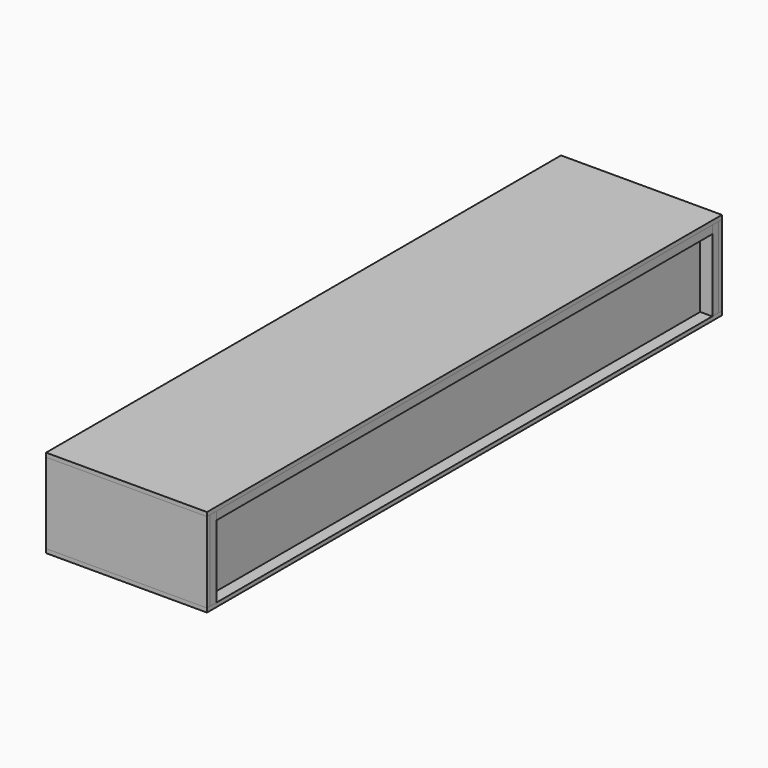
from build123d import *

# Parameters (mm, degrees)
BOX_W          = 200
BOX_H          = 800
BOX_DEPTH      = 5
BOX002_W       = 5
BOX002_H       = 790
BOX002_DEPTH   = 100
BOX003_W       = 200
BOX003_H       = 5
BOX003_DEPTH   = 100
BOX004_W       = 200
BOX004_H       = 5
BOX004_DEPTH   = 100
BOX005_W       = 5
BOX005_H       = 790
BOX005_DEPTH   = 100
BOX007_W       = 15
BOX007_H       = 10
BOX007_DEPTH   = 100
BOX008_W       = 15
BOX008_H       = 10
BOX008_DEPTH   = 100
BOX009_W       = 15
BOX009_H       = 10
BOX009_DEPTH   = 100
BOX010_W       = 15
BOX010_H       = 10
BOX010_DEPTH   = 100
BOX006_W       = 20
BOX006_H       = 790
BOX006_DEPTH   = 20
BOX011_W       = 17
BOX011_H       = 18.5
BOX011_DEPTH   = 800
SKETCH_R       = 2.5
HOLE_DEPTH     = 25
BOX001_W       = 200
BOX001_H       = 800
BOX001_DEPTH   = 5
SKETCH001_R    = 6
HOLE001_DEPTH  = 31
CYLINDER_R     = 27
CYLINDER_DEPTH = 55
BOX012_W       = 84
BOX012_H       = 220
BOX012_DEPTH   = 20
BOX013_W       = 82
BOX013_H       = 218
BOX013_DEPTH   = 5
BOX014_W       = 15
BOX014_H       = 770
BOX014_DEPTH   = 10


with BuildPart() as roof:
    # Box → Box (new body)
    with BuildSketch(Plane.XY.offset(105)):
        with Locations((100, 400)):
            Rectangle(BOX_W, BOX_H)
    extrude(amount=BOX_DEPTH)


with BuildPart() as glass:
    # Box002 → Box002 (new body)
    with BuildSketch(Plane(origin=(180, 5, 5), x_dir=(1, 0, 0), z_dir=(0, 0, 1))):
        with Locations((2.5, 395)):
            Rectangle(BOX002_W, BOX002_H)
    extrude(amount=BOX002_DEPTH)


with BuildPart() as sideright:
    # Box003 → Box003 (new body)
    with BuildSketch(Plane.XY.offset(5)):
        with Locations((100, 2.5)):
            Rectangle(BOX003_W, BOX003_H)
    extrude(amount=BOX003_DEPTH)


with BuildPart() as sideleft:
    # Box004 → Box004 (new body)
    with BuildSketch(Plane(origin=(0, 795, 5), x_dir=(1, 0, 0), z_dir=(0, 0, 1))):
        with Locations((100, 2.5)):
            Rectangle(BOX004_W, BOX004_H)
    extrude(amount=BOX004_DEPTH)


with BuildPart() as back:
    # Box005 → Box005 (new body)
    with BuildSketch(Plane(origin=(0, 5, 5), x_dir=(1, 0, 0), z_dir=(0, 0, 1))):
        with Locations((2.5, 395)):
            Rectangle(BOX005_W, BOX005_H)
    extrude(amount=BOX005_DEPTH)


with BuildPart() as obj1:
    # Box007 → Box007 (new body)
    with BuildSketch(Plane(origin=(185, 5, 5), x_dir=(1, 0, 0), z_dir=(0, 0, 1))):
        with Locations((7.5, 5)):
            Rectangle(BOX007_W, BOX007_H)
    extrude(amount=BOX007_DEPTH)


with BuildPart() as obj2:
    # Box008 → Box008 (new body)
    with BuildSketch(Plane(origin=(165, 5, 5), x_dir=(1, 0, 0), z_dir=(0, 0, 1))):
        with Locations((7.5, 5)):
            Rectangle(BOX008_W, BOX008_H)
    extrude(amount=BOX008_DEPTH)


with BuildPart() as obj3:
    # Box009 → Box009 (new body)
    with BuildSketch(Plane(origin=(185, 785, 5), x_dir=(1, 0, 0), z_dir=(0, 0, 1))):
        with Locations((7.5, 5)):
            Rectangle(BOX009_W, BOX009_H)
    extrude(amount=BOX009_DEPTH)


with BuildPart() as obj4:
    # Box010 → Box010 (new body)
    with BuildSketch(Plane(origin=(165, 785, 5), x_dir=(1, 0, 0), z_dir=(0, 0, 1))):
        with Locations((7.5, 5)):
            Rectangle(BOX010_W, BOX010_H)
    extrude(amount=BOX010_DEPTH)


with BuildPart() as rail:
    # Box006 → Box006 (new body)
    with BuildSketch(Plane(origin=(145, 5, 85), x_dir=(1, 0, 0), z_dir=(0, 0, 1))):
        with Locations((10, 395)):
            Rectangle(BOX006_W, BOX006_H)
    extrude(amount=BOX006_DEPTH)


with BuildPart() as rail_1:
    # BaseFeature placement: moved
    add(rail.part.moved(Location((-145, -5, -85))))

    # Box011 → Box011 (cut)
    with BuildSketch(Plane(origin=(1.5, 800, 0), x_dir=(1, 0, 0), z_dir=(0, -1, 0))):
        with Locations((8.5, 9.25)):
            Rectangle(BOX011_W, BOX011_H)
    extrude(amount=BOX011_DEPTH, mode=Mode.SUBTRACT)

    # Sketch → Hole (cut)
    with BuildSketch(Plane(origin=(1.5, 800, 0), x_dir=(1, 0, 0), z_dir=(0, 0, -1))):
        with Locations((10, 50)):
            Circle(SKETCH_R)
        with Locations((10, 100)):
            Circle(SKETCH_R)
        with Locations((10, 150)):
            Circle(SKETCH_R)
        with Locations((10, 200)):
            Circle(SKETCH_R)
        with Locations((10, 250)):
            Circle(SKETCH_R)
        with Locations((10, 300)):
            Circle(SKETCH_R)
        with Locations((10, 350)):
            Circle(SKETCH_R)
        with Locations((10, 400)):
            Circle(SKETCH_R)
        with Locations((10, 450)):
            Circle(SKETCH_R)
        with Locations((10, 500)):
            Circle(SKETCH_R)
        with Locations((10, 550)):
            Circle(SKETCH_R)
        with Locations((10, 600)):
            Circle(SKETCH_R)
        with Locations((10, 650)):
            Circle(SKETCH_R)
        with Locations((10, 700)):
            Circle(SKETCH_R)
        with Locations((10, 750)):
            Circle(SKETCH_R)
    extrude(amount=-HOLE_DEPTH, mode=Mode.SUBTRACT)


with BuildPart() as rail_2:
    # Body placement: moved
    add(rail_1.part.moved(Location((125, 5, 5))))


with BuildPart() as floor:
    # Box001 → Box001 (new body)
    with BuildSketch(Plane.XY):
        with Locations((100, 400)):
            Rectangle(BOX001_W, BOX001_H)
    extrude(amount=BOX001_DEPTH)

    # Sketch001 (on Face6 of BaseFeature001) → Hole001 (cut)
    with BuildSketch(Plane.XY.offset(5)):
        with Locations((112.697332, 273.583833)):
            Circle(SKETCH001_R)
    extrude(amount=-HOLE001_DEPTH, mode=Mode.SUBTRACT)

    # Cylinder → Cylinder (cut)
    with BuildSketch(Plane(origin=(42, 756, -20), x_dir=(1, 0, 0), z_dir=(0, 0, 1))):
        Circle(CYLINDER_R)
    extrude(amount=CYLINDER_DEPTH, mode=Mode.SUBTRACT)

    # Box012 → Box012 (cut)
    with BuildSketch(Plane(origin=(20, 20, -10), x_dir=(1, 0, 0), z_dir=(0, 0, 1))):
        with Locations((42, 110)):
            Rectangle(BOX012_W, BOX012_H)
    extrude(amount=BOX012_DEPTH, mode=Mode.SUBTRACT)


with BuildPart() as door:
    # Box013 → Box013 (new body)
    with BuildSketch(Plane(origin=(21, 21, 0), x_dir=(1, 0, 0), z_dir=(0, 0, 1))):
        with Locations((41, 109)):
            Rectangle(BOX013_W, BOX013_H)
    extrude(amount=BOX013_DEPTH)


with BuildPart() as obj5:
    # Box014 → Box014 (new body)
    with BuildSketch(Plane(origin=(185, 15, 95), x_dir=(1, 0, 0), z_dir=(0, 0, 1))):
        with Locations((7.5, 385)):
            Rectangle(BOX014_W, BOX014_H)
    extrude(amount=BOX014_DEPTH)


solid = Compound([roof.part, glass.part, sideright.part, sideleft.part, back.part, obj1.part, obj2.part, obj3.part, obj4.part, rail_2.part, floor.part, door.part, obj5.part])
